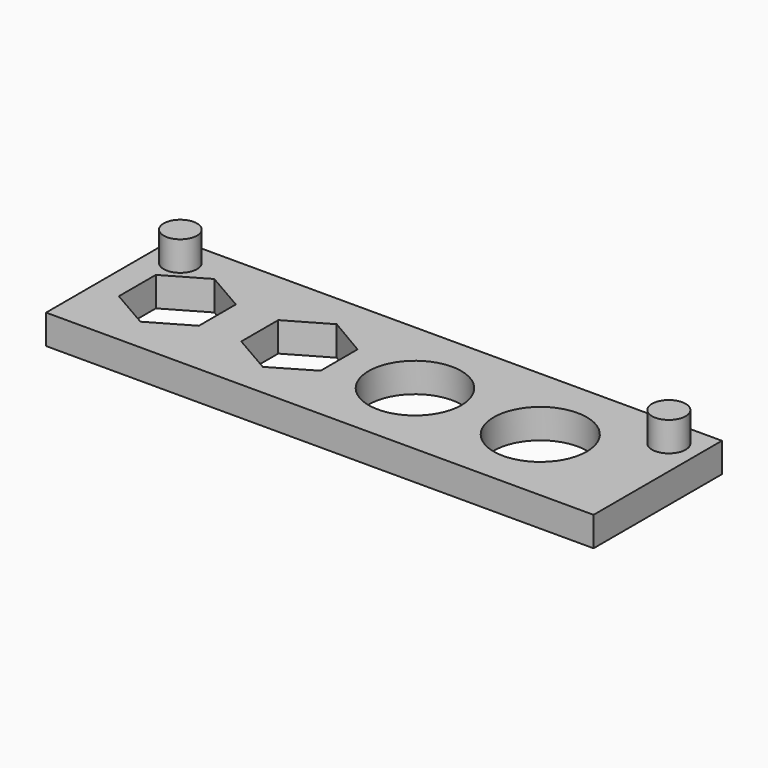
from build123d import *

# Parameters (mm, degrees)
F0_W     = 130
F0_H     = 38.1
F2_DEPTH = 3.5
F1_R     = 11
F1_R_2   = 11.05
F3_DEPTH = 12.5
F4_R     = 4
F4_R_2   = 3.95
F5_DEPTH = 7


with BuildPart() as f2:
    # F0 (on Top) → F2 (new body, symmetric)
    with BuildSketch(Plane.XY):
        with Locations((20, 0)):
            Rectangle(F0_W, F0_H)
    extrude(amount=F2_DEPTH, both=True)

    # F1 (on face) → F3 (cut, symmetric)
    with BuildSketch(Plane.XY):
        Polygon((9.33, -5.4848275573), (9.33, 5.4848275573), (0, 10.9696551146), (-9.5, 5.4848275573), (-9.5, -5.4848275573), (0, -10.9696551146), align=None)
        with Locations((27.3575689644, 0)):
            Circle(F1_R)
        Polygon((-19.5691703558, -5.4848275573), (-19.5691703558, 5.4848275573), (-29.0691703558, 10.9696551146), (-38.5691703558, 5.4848275573), (-38.5691703558, -5.4848275573), (-29.0691703558, -10.9696551146), align=None)
        with Locations((57.105883956, 0)):
            Circle(F1_R_2)
    extrude(amount=F3_DEPTH, both=True, mode=Mode.SUBTRACT)

    # F4 (on face) → F5 (join)
    with BuildSketch(Plane.XY.offset(3.5)):
        with Locations((78, 12.05)):
            Circle(F4_R)
        with Locations((-38, 12.05)):
            Circle(F4_R_2)
    extrude(amount=F5_DEPTH)


solid = f2.part
